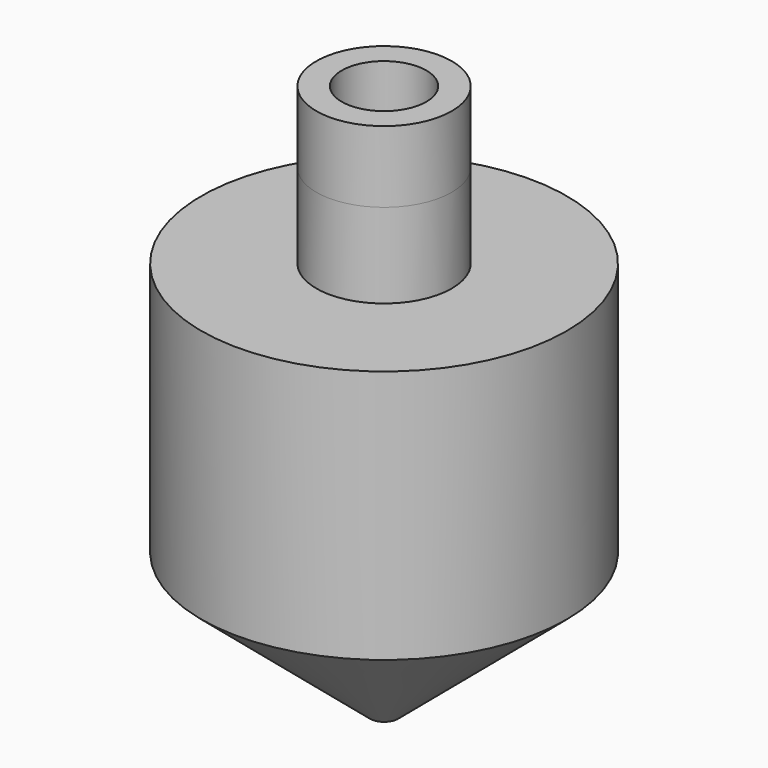
from build123d import *

# Parameters (mm, degrees)
F2_R         = 4.7625
F1_FACE1_R   = 20.5612294376
F1_FACE1_R_2 = 7.62
F3_DEPTH     = 9.525
F4_R         = 1.5875
F5_DEPTH     = 19.05


with BuildPart() as f1:
    # F0 (on Front) → F1 (revolve)
    with BuildSketch(Plane.XZ):
        Polygon((0, 63.5), (0, 0), (20.5612294376, 17.3543042779), (20.5612294376, 55.4543042779), (7.62, 55.4543042779), (7.62, 63.5), align=None)
    revolve(axis=Axis((0, 0, 31.75), (0, 0, -1)))

    # F2 (on face) + F1_face1 (on face) → F3 (cut)
    with BuildSketch(Plane.XY.offset(63.5)):
        Circle(F2_R)
    with BuildSketch(Plane.XY.offset(55.4543042779)):
        Circle(F1_FACE1_R)
        Circle(F1_FACE1_R_2, mode=Mode.SUBTRACT)
    extrude(amount=-F3_DEPTH, mode=Mode.SUBTRACT)

    # F4 (on Top) → F5 (cut)
    with BuildSketch(Plane.XY):
        Circle(F4_R)
    extrude(amount=F5_DEPTH, mode=Mode.SUBTRACT)


solid = f1.part
